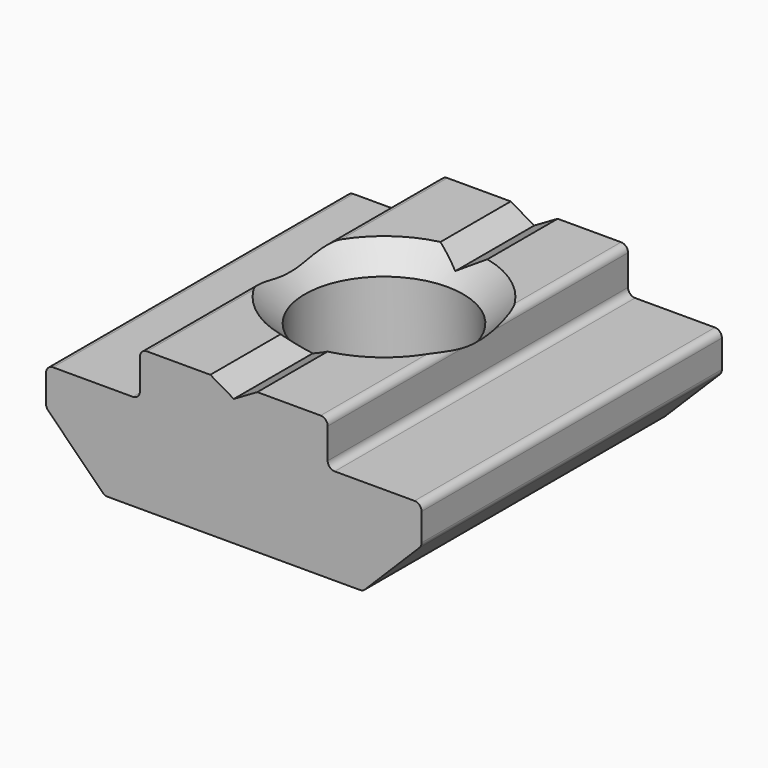
from build123d import *

# Parameters (mm, degrees)
PAD_DEPTH   = 8
SKETCH001_R = 3.375
HOLE_DEPTH  = 6.001


with BuildPart() as part:
    # Sketch → Pad (new body, symmetric)
    with BuildSketch(Plane.XZ):
        with BuildLine():
            Line((-1, 6), (-3.7, 6))
            ThreePointArc((-3.7, 6), (-3.912132, 5.912132), (-4, 5.7))
            Line((-4, 5.7), (-4, 4.4))
            ThreePointArc((-4.3, 4.1), (-4.087868, 4.187868), (-4, 4.4))
            Line((-4.3, 4.1), (-7.7, 4.1))
            ThreePointArc((-7.7, 4.1), (-7.912132, 4.012132), (-8, 3.8))
            Line((-8, 3.8), (-8, 2.624264))
            ThreePointArc((-8, 2.624264), (-7.977164, 2.509459), (-7.912132, 2.412132))
            Line((-7.912132, 2.412132), (-5.587868, 0.087868))
            ThreePointArc((-5.587868, 0.087868), (-5.490541, 0.022836), (-5.375736, 0))
            Line((-5.375736, 0), (5.375736, 0))
            ThreePointArc((5.375736, 0), (5.490541, 0.022836), (5.587868, 0.087868))
            Line((5.587868, 0.087868), (7.912132, 2.412132))
            ThreePointArc((7.912132, 2.412132), (7.977164, 2.509459), (8, 2.624264))
            Line((8, 2.624264), (8, 3.8))
            ThreePointArc((8, 3.8), (7.912132, 4.012132), (7.7, 4.1))
            Line((7.7, 4.1), (4.3, 4.1))
            ThreePointArc((4, 4.4), (4.087868, 4.187868), (4.3, 4.1))
            Line((4, 4.4), (4, 5.7))
            ThreePointArc((4, 5.7), (3.912132, 5.912132), (3.7, 6))
            Line((3.7, 6), (1, 6))
            Line((1, 6), (0, 5.42))
            Line((0, 5.42), (-1, 6))
        make_face()
    extrude(amount=PAD_DEPTH, both=True)

    # Sketch001 → Hole (cut, through all)
    with BuildSketch(Plane.XY.offset(6)):
        Circle(SKETCH001_R)
    extrude(amount=-HOLE_DEPTH, mode=Mode.SUBTRACT)

    # Sketch002 → Groove (revolve, cut)
    with BuildSketch(Plane.YZ):
        Polygon((3.375, 6), (4.375, 6), (3.375, 5), align=None)
        Polygon((3.375, 0), (3.375, 1), (4.375, 0), align=None)
    revolve(axis=Axis((0, 0, 0), (0, 0, 1)), mode=Mode.SUBTRACT)


solid = part.part
